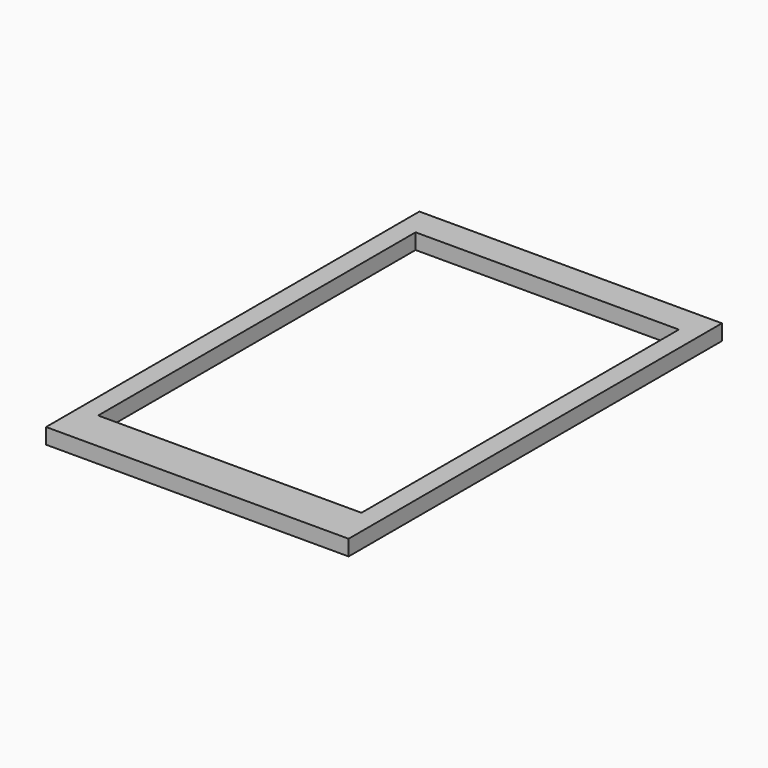
from build123d import *

# Parameters (mm, degrees)
SKETCH_W     = 33.55
SKETCH_H     = 51.75
PAD_DEPTH    = 1.73
SKETCH001_W  = 29.2
SKETCH001_H  = 43
POCKET_DEPTH = 5
CHAMFER_SIZE = 1


with BuildPart() as part:
    # Sketch → Pad (new body)
    with BuildSketch(Plane.XY):
        Rectangle(SKETCH_W, SKETCH_H)
    extrude(amount=PAD_DEPTH)

    # Sketch001 (on Face6 of Pad) → Pocket (cut)
    with BuildSketch(Plane.XY.offset(1.73)):
        with Locations((0, 1.125)):
            Rectangle(SKETCH001_W, SKETCH001_H)
    extrude(amount=-POCKET_DEPTH, mode=Mode.SUBTRACT)

    # Chamfer
    chamfer_edges = [part.edges().sort_by_distance(p)[0] for p in [
        (0, -20.375, 1.73),
    ]]
    chamfer(chamfer_edges, length=CHAMFER_SIZE)


solid = part.part
